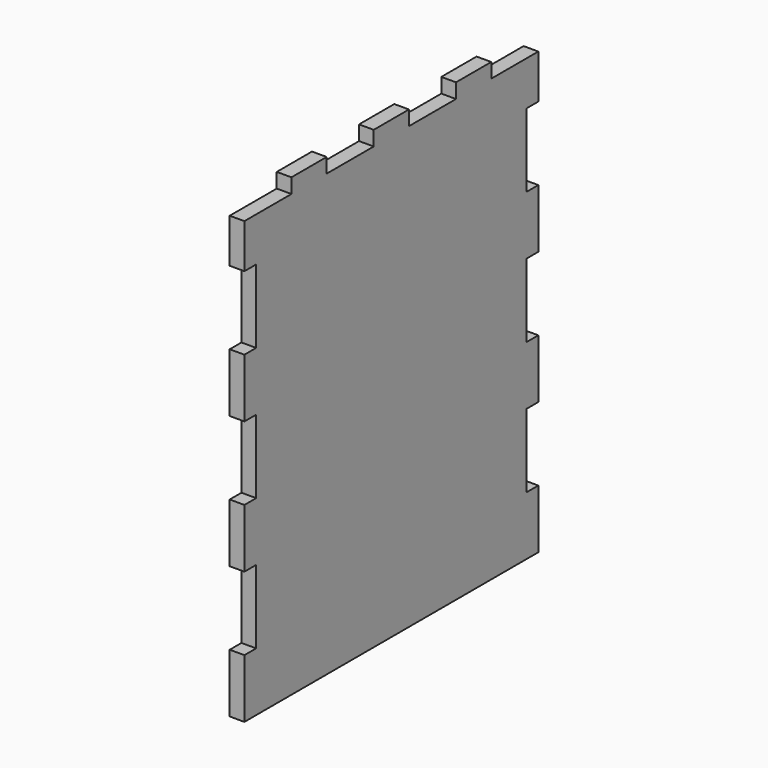
from build123d import *

# Parameters (mm, degrees)
F0_W     = 79.375
F0_H     = 98.425
F1_DEPTH = 3.175
F2_W     = 3.175
F2_H     = 15.875
F3_DEPTH = 3.176
F4_W     = 12.7
F4_H     = 3.175
F5_DEPTH = 3.176


with BuildPart() as f1:
    # F0 (on Right) → F1 (new body)
    with BuildSketch(Plane.YZ):
        Rectangle(F0_W, F0_H)
    extrude(amount=F1_DEPTH)

    # F2 (on face) → F3 (cut, through all)
    with BuildSketch(Plane.YZ.offset(3.175)):
        with Locations((-38.1, 28.575)):
            Rectangle(F2_W, F2_H)
        with Locations((-38.1, 0)):
            Rectangle(F2_W, F2_H)
        with Locations((-38.1, -28.575)):
            Rectangle(F2_W, F2_H)
        with Locations((38.1, 28.575)):
            Rectangle(F2_W, F2_H)
        with Locations((38.1, -28.575)):
            Rectangle(F2_W, F2_H)
        with Locations((38.1, 0)):
            Rectangle(F2_W, F2_H)
    extrude(amount=-F3_DEPTH, mode=Mode.SUBTRACT)

    # F4 (on face) → F5 (cut, through all)
    with BuildSketch(Plane.YZ.offset(3.175)):
        with Locations((-33.3375, 47.625)):
            Rectangle(F4_W, F4_H)
        with Locations((-11.1125, 47.625)):
            Rectangle(F4_W, F4_H)
        with Locations((11.1125, 47.625)):
            Rectangle(F4_W, F4_H)
        with Locations((33.3375, 47.625)):
            Rectangle(F4_W, F4_H)
    extrude(amount=-F5_DEPTH, mode=Mode.SUBTRACT)


solid = f1.part
